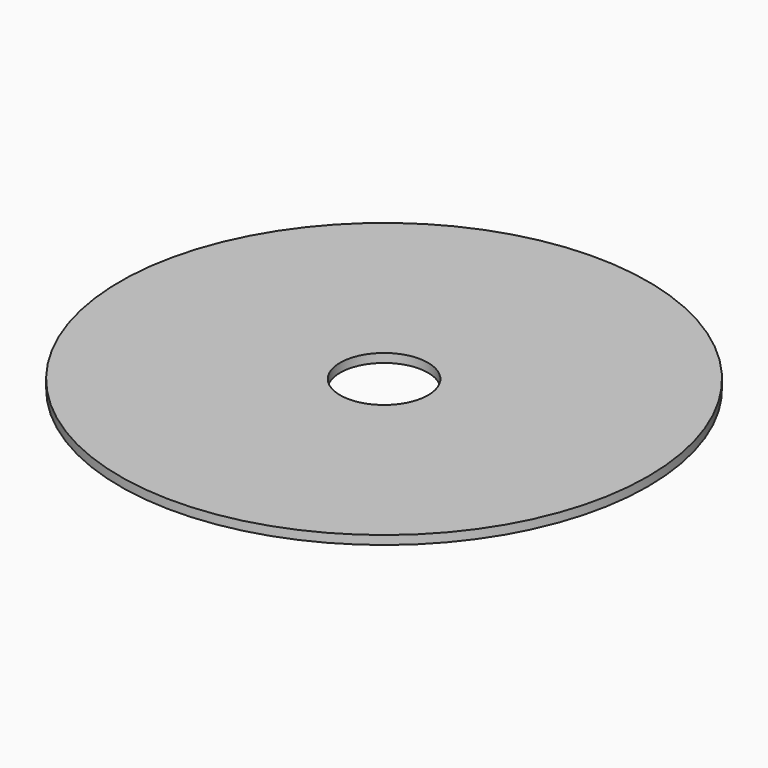
from build123d import *

# Parameters (mm, degrees)
CYLINDER001_R     = 25
CYLINDER001_DEPTH = 5
CYLINDER_R        = 150
CYLINDER_DEPTH    = 5


with BuildPart() as center_hole:
    # Cylinder001 → Cylinder001 (new body)
    with BuildSketch(Plane.XY):
        Circle(CYLINDER001_R)
    extrude(amount=CYLINDER001_DEPTH)


with BuildPart() as cut:
    # Cylinder → Cylinder (new body)
    with BuildSketch(Plane.XY):
        Circle(CYLINDER_R)
    extrude(amount=CYLINDER_DEPTH)

    # Cut: cut Center Hole
    add(center_hole.part, mode=Mode.SUBTRACT)


solid = cut.part
